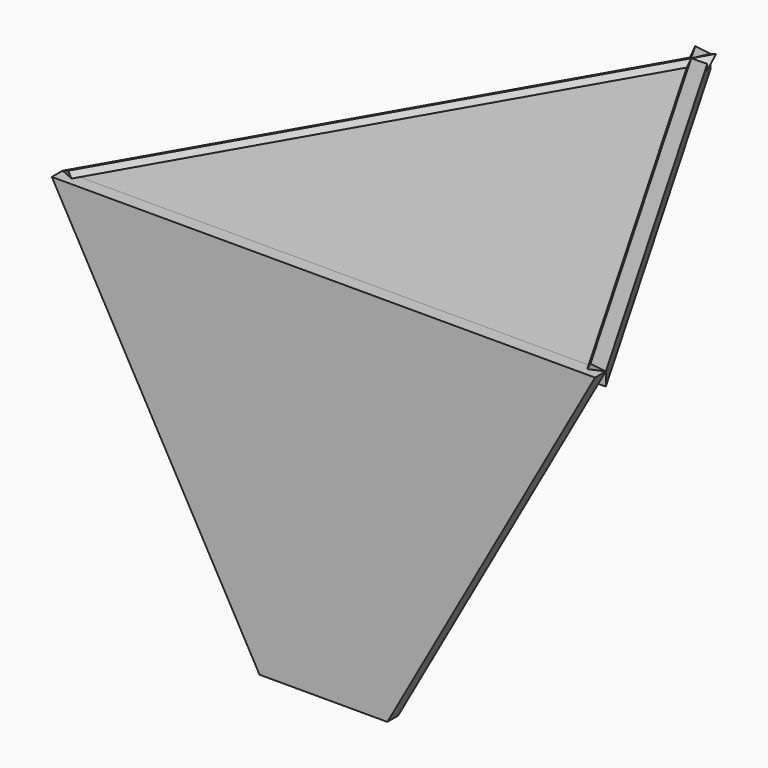
from build123d import *

# Parameters (mm, degrees)
F1_DEPTH = 21
F3_DEPTH = 21
F6_DEPTH = 21


with BuildPart() as f1:
    # F0 (on Front) → F1 (new body)
    with BuildSketch(Plane.XZ):
        Polygon((425, 580), (-425, 580), (-100, 0), (100, 0), align=None)
    extrude(amount=F1_DEPTH)


with BuildPart() as f3:
    # F2 (on face) → F3 (new body)
    with BuildSketch(Plane.XY.offset(580)):
        Polygon((0, 736.1215932168), (-425, 0), (425, 0), align=None)
    extrude(amount=-F3_DEPTH)


with BuildPart() as f6:
    # F5 (on 3pt) → F6 (new body)
    with BuildSketch(Plane(origin=(60.7046722507, 35.047858865, -34.015549106), x_dir=(0.392423502, -0.8931131465, -0.2198924796), z_dir=(-0.7791320315, -0.4498320881, 0.4365826039))):
        Polygon((39.2423502009, 48.8832356298), (39.2423502009, 713.7328426839), (-784.9775104966, 505.9790912573), (-160.7576497991, 48.8832356298), align=None)
    extrude(amount=F6_DEPTH)


with BuildPart() as f7_1:
    # F7: instance of F6
    add(f6.part.mirror(Plane.YZ))


solid = Compound([f1.part, f3.part, f6.part, f7_1.part])
